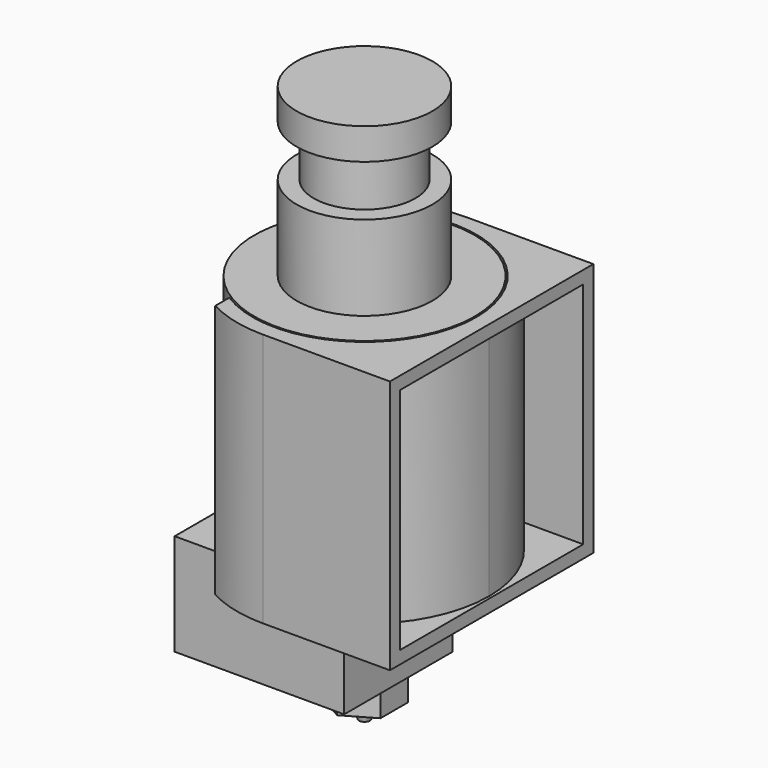
from build123d import *

# Parameters (mm, degrees)
F0_R      = 8
F1_DEPTH  = 3.7
F2_R      = 6
F3_DEPTH  = 6
F4_R      = 8
F5_DEPTH  = 10
F6_R      = 13
F7_DEPTH  = 26
F8_R      = 3.4
F9_DEPTH  = 18
F10_R     = 3.4
F11_DEPTH = 18
F12_R     = 2
F13_DEPTH = 3
F14_R     = 2.875
F15_DEPTH = 5
F16_W     = 20
F16_H     = 16
F17_DEPTH = 12
F18_R     = 2.875
F19_DEPTH = 12
F21_DEPTH = 3
F22_R     = 1.9
F24_R     = 0.65
F27_DEPTH = 30
F28_T     = -1.5


with BuildPart() as f1:
    # F0 (on Top) → F1 (new body)
    with BuildSketch(Plane.XY):
        Circle(F0_R)
    extrude(amount=F1_DEPTH)

    # F2 (on face) → F3 (join)
    with BuildSketch(Plane(origin=(0, 0, 0), x_dir=(1, 0, 0), z_dir=(0, 0, -1))):
        Circle(F2_R)
    extrude(amount=F3_DEPTH)

    # F4 (on face) → F5 (join)
    with BuildSketch(Plane(origin=(0, 0, -6), x_dir=(1, 0, 0), z_dir=(0, 0, -1))):
        Circle(F4_R)
    extrude(amount=F5_DEPTH)

    # F6 (on face) → F7 (join)
    with BuildSketch(Plane(origin=(0, 0, -16), x_dir=(1, 0, 0), z_dir=(0, 0, -1))):
        Circle(F6_R)
    extrude(amount=F7_DEPTH)

    # F8 (on face) → F9 (cut)
    with BuildSketch(Plane(origin=(0, 0, -42), x_dir=(1, 0, 0), z_dir=(0, 0, -1))):
        Circle(F8_R)
    extrude(amount=-F9_DEPTH, mode=Mode.SUBTRACT)


with BuildPart() as f11:
    # F10 (on face) → F11 (new body)
    with BuildSketch(Plane(origin=(0, 0, -42), x_dir=(1, 0, 0), z_dir=(0, 0, -1))):
        Circle(F10_R)
    extrude(amount=-F11_DEPTH)

    # F12 (on face) → F13 (join)
    with BuildSketch(Plane(origin=(0, 0, -42), x_dir=(1, 0, 0), z_dir=(0, 0, -1))):
        Circle(F12_R)
    extrude(amount=F13_DEPTH)

    # F14 (on face) → F15 (join)
    with BuildSketch(Plane(origin=(0, 0, -45), x_dir=(1, 0, 0), z_dir=(0, 0, -1))):
        Circle(F14_R)
    extrude(amount=F15_DEPTH)


with BuildPart() as f17:
    # F16 (on face) → F17 (new body)
    with BuildSketch(Plane.XY.offset(-45)):
        with Locations((-6, 0)):
            Rectangle(F16_W, F16_H)
    extrude(amount=-F17_DEPTH)

    # F18 (on face) → F19 (cut, through all)
    with BuildSketch(Plane(origin=(0, 0, -57), x_dir=(1, 0, 0), z_dir=(0, 0, -1))):
        Circle(F18_R)
    extrude(amount=-F19_DEPTH, mode=Mode.SUBTRACT)


with BuildPart() as f21:
    # F20 (on face) → F21 (new body)
    with BuildSketch(Plane(origin=(0, 0, -57), x_dir=(1, 0, 0), z_dir=(0, 0, -1))):
        Polygon((-3.5, 2.0207259422), (-3.5, -2.0207259422), (0, -4.0414518843), (3.5, -2.0207259422), (3.5, 2.0207259422), (0, 4.0414518843), align=None)
    extrude(amount=F21_DEPTH)

    # F22 (on face) → F25 section 0
    with BuildSketch(Plane(origin=(0, 0, -57), x_dir=(1, 0, 0), z_dir=(0, 0, -1))):
        Circle(F22_R)
    # F24 (on offset) → F25 section 1
    with BuildSketch(Plane(origin=(0, 0, -62), x_dir=(1, 0, 0), z_dir=(0, 0, -1))):
        Circle(F24_R)
    loft()


with BuildPart() as f27:
    # F26 (on face) → F27 (new body)
    with BuildSketch(Plane.XY.offset(-16)):
        with BuildLine():
            Line((-7, -11.1910678668), (-7, -13.2664991614))
            ThreePointArc((-7, -13.2664991614), (-3.6057254872, -14.5601766373), (0, -15))
            Line((0, -15), (15, -15))
            Line((15, -15), (15, 15))
            Line((15, 15), (0, 15))
            ThreePointArc((0, 15), (-3.6057254872, 14.5601766373), (-7, 13.2664991614))
            Line((-7, 13.2664991614), (-7, 11.1910678668))
            ThreePointArc((-7, 11.1910678668), (6.3968742367, 11.5464280191), (13.2, 0))
            ThreePointArc((13.2, 0), (6.3968742367, -11.5464280191), (-7, -11.1910678668))
        make_face()
    extrude(amount=-F27_DEPTH)

    # F28
    f28_openings = [f27.faces().sort_by_distance(p)[0] for p in [
        (15, 0, -31),
    ]]
    offset(amount=F28_T, openings=f28_openings)


solid = Compound([f1.part, f11.part, f17.part, f21.part, f27.part])
